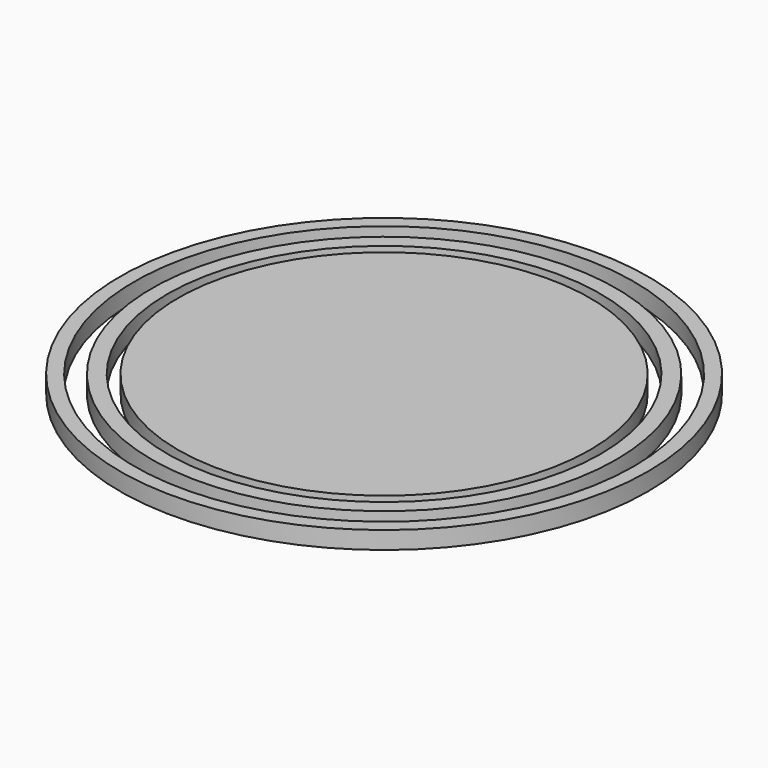
from build123d import *

# Parameters (mm, degrees)
F0_R     = 38.1
F1_DEPTH = 2.54
F2_R     = 36.070547
F2_R_2   = 33.501718
F3_DEPTH = 25.4
F4_R     = 31.269157
F4_R_2   = 29.719914
F5_DEPTH = 25.4


with BuildPart() as f1:
    # F0 (on Top) → F1 (new body)
    with BuildSketch(Plane.XY):
        Circle(F0_R)
    extrude(amount=F1_DEPTH)

    # F2 (on face) → F3 (cut)
    with BuildSketch(Plane.XY.offset(2.54)):
        Circle(F2_R)
        Circle(F2_R_2, mode=Mode.SUBTRACT)
    extrude(amount=-F3_DEPTH, mode=Mode.SUBTRACT)

    # F4 (on face) → F5 (cut)
    with BuildSketch(Plane.XY.offset(2.54)):
        Circle(F4_R)
        Circle(F4_R_2, mode=Mode.SUBTRACT)
    extrude(amount=-F5_DEPTH, mode=Mode.SUBTRACT)


solid = f1.part
